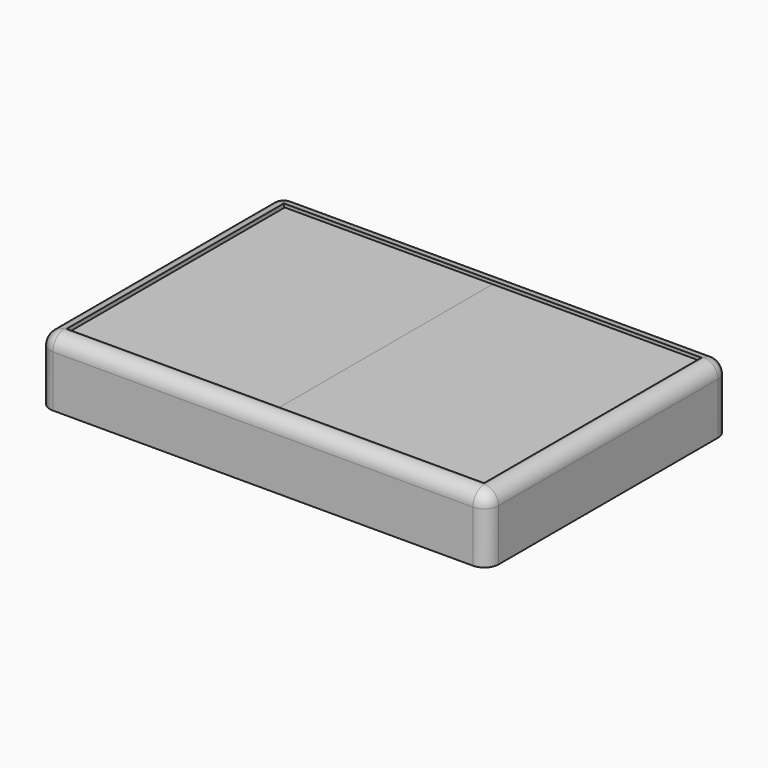
from build123d import *

# Parameters (mm, degrees)
F0_W       = 73.260456
F0_H       = 49.441814
F1_DEPTH   = 10.776763
F2_T       = -2.54
F3_R       = 2.33799
F4_W       = 1.399759
F4_H       = 1.294777
F5_DEPTH   = 9.398
F6_W       = 1.563214
F6_H       = 1.507386
F7_DEPTH   = 9.398
F8_W       = 1.542312
F8_H       = 1.454178
F9_DEPTH   = 9.398
F10_W      = 1.663889
F10_H      = 1.606002
F11_DEPTH  = 9.398
F12_W      = 44.404678
F12_H      = 1.001656
F13_DEPTH  = 33.892479
F13_FACE_W = 44.404678
F13_FACE_H = 1.001656
F14_DEPTH  = 33.945933


with BuildPart() as f1:
    # F0 (on Top) → F1 (new body)
    with BuildSketch(Plane.XY):
        Rectangle(F0_W, F0_H)
    extrude(amount=F1_DEPTH)

    # F2
    f2_openings = [f1.faces().sort_by_distance(p)[0] for p in [
        (0, 0, 10.776763),
    ]]
    offset(amount=F2_T, openings=f2_openings)

    # F3
    f3_edges = [f1.edges().sort_by_distance(p)[0] for p in [
        (0, -24.720907, 10.776763),
        (36.630228, 0, 10.776763),
        (0, 24.720907, 10.776763),
        (-36.630228, 0, 10.776763),
        (-36.630228, -24.720907, 5.388381),
        (36.630228, -24.720907, 5.388381),
        (36.630228, 24.720907, 5.388381),
        (-36.630228, 24.720907, 5.388381),
    ]]
    fillet(f3_edges, radius=F3_R)

    # F4 (on Top) → F5 (join)
    with BuildSketch(Plane.XY):
        with Locations((-33.404568, 21.647738)):
            Rectangle(F4_W, F4_H)
    extrude(amount=F5_DEPTH)

    # F6 (on Top) → F7 (join)
    with BuildSketch(Plane.XY):
        with Locations((-33.348691, -21.503959)):
            Rectangle(F6_W, F6_H)
    extrude(amount=F7_DEPTH)

    # F8 (on Top) → F9 (join)
    with BuildSketch(Plane.XY):
        with Locations((33.5986, 21.531241)):
            Rectangle(F8_W, F8_H)
    extrude(amount=F9_DEPTH)

    # F10 (on Top) → F11 (join)
    with BuildSketch(Plane.XY):
        with Locations((33.382011, -21.529004)):
            Rectangle(F10_W, F10_H)
    extrude(amount=F11_DEPTH)


with BuildPart() as f13:
    # F12 (on Right) → F13 (new body)
    with BuildSketch(Plane.YZ):
        with Locations((0, 9.748157)):
            Rectangle(F12_W, F12_H)
    extrude(amount=F13_DEPTH)


with BuildPart() as f14:
    # F13_face (on face) → F14 (new body)
    with BuildSketch(Plane(origin=(0, 0, 9.748157), x_dir=(0, 1, 0), z_dir=(-1, 0, 0))):
        Rectangle(F13_FACE_W, F13_FACE_H)
    extrude(amount=F14_DEPTH)


solid = Compound([f1.part, f13.part, f14.part])
